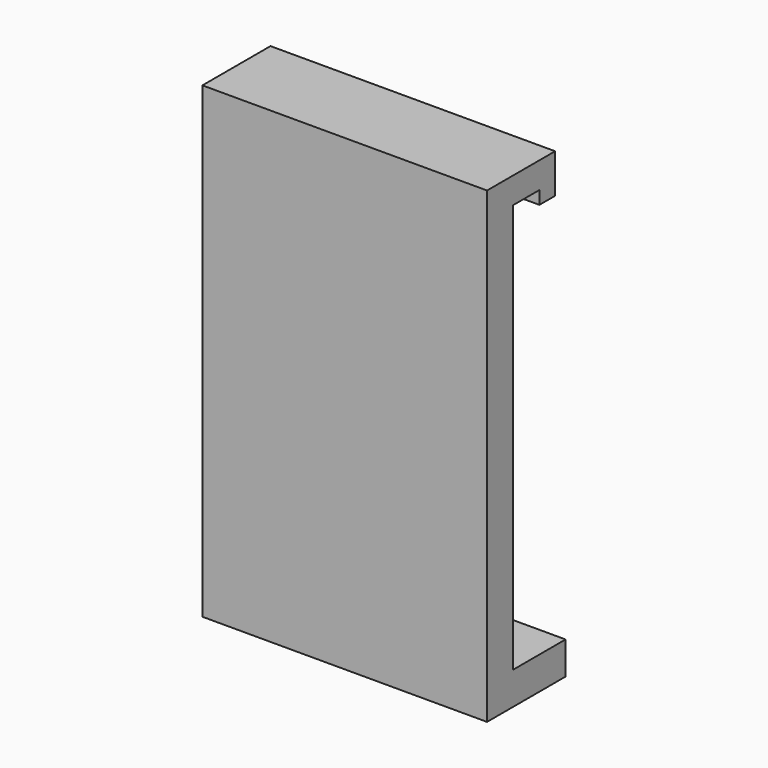
from build123d import *

# Parameters (mm, degrees)
F1_DEPTH      = 33.5
F1_DEPTH_BACK = 10


with BuildPart() as f1:
    # F0 (on Right) → F1 (new body, two sides)
    with BuildSketch(Plane.YZ) as f1_sk:
        Polygon((0, -62.5), (0, 0), (5, 0), (5, -2), (8, -2), (8, 4), (-5, 4), (-5, -67.5), (10, -67.5), (10, -62.5), align=None)
    extrude(amount=F1_DEPTH)
    extrude(f1_sk.sketch, amount=-F1_DEPTH_BACK)


solid = f1.part
